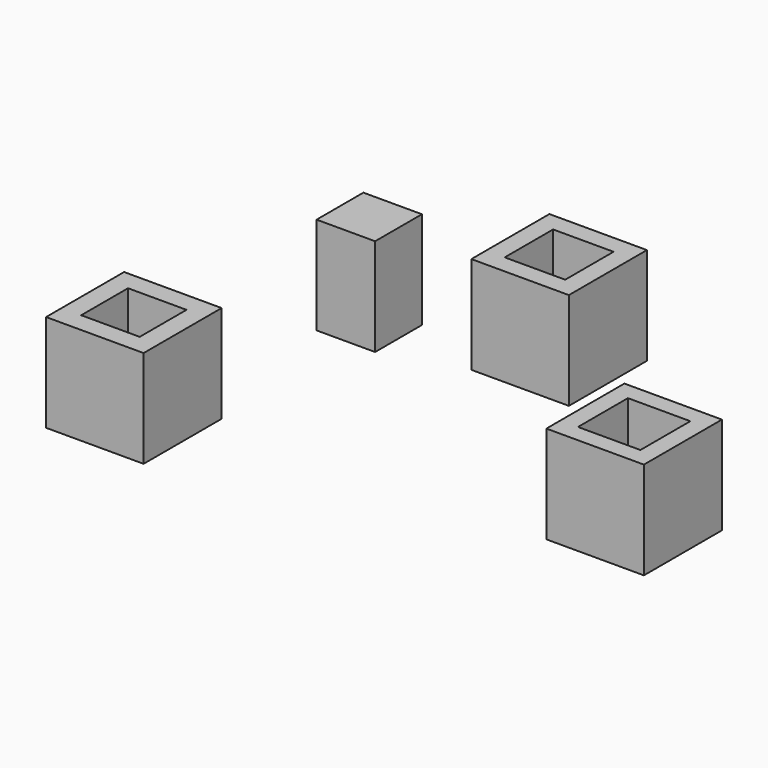
from build123d import *

# Parameters (mm, degrees)
F0_W      = 12.7
F0_H      = 12.7
F1_DEPTH  = 12.7
F3_DEPTH  = 25.4
F5_DEPTH  = 12.7
F6_DEPTH  = 12.7
F7_W      = 7.62
F7_H      = 7.62
F8_DEPTH  = 12.7
F10_DEPTH = 12.7


with BuildPart() as f1:
    # F0 (on Top) → F1 (new body)
    with BuildSketch(Plane.XY):
        with Locations((-32.144345, -16.076457)):
            Rectangle(F0_W, F0_H)
    extrude(amount=F1_DEPTH)

    # F2 (on face) → F3 (cut)
    with BuildSketch(Plane.XY.offset(12.7)):
        Polygon((-28.334345, -19.886457), (-28.334345, -16.076457), (-28.334345, -12.266457), (-32.144345, -12.266457), (-35.954345, -12.266457), (-35.954345, -16.076457), (-35.954345, -19.886457), (-32.144345, -19.886457), align=None)
    extrude(amount=-F3_DEPTH, mode=Mode.SUBTRACT)


with BuildPart() as f5:
    # F4 (on Top) → F5 (new body)
    with BuildSketch(Plane.XY):
        Polygon((16.574092, 0.588263), (16.574092, -9.825737), (22.924092, -9.825737), (22.924092, -7.539737), (18.860092, -7.539737), (18.860092, -3.475737), (18.860092, 0.588263), align=None)
        Polygon((22.924092, -7.539737), (22.924092, -9.825737), (29.274092, -9.825737), (29.274092, -3.475737), (26.988092, -3.475737), (26.988092, -7.539737), align=None)
        Polygon((16.574092, 2.874263), (16.574092, 0.588263), (18.860092, 0.588263), (21.67373, 0.588263), (21.67373, 2.874263), align=None)
        Polygon((26.988092, -3.475737), (29.274092, -3.475737), (29.274092, 2.874263), (21.67373, 2.874263), (21.67373, 0.588263), (26.988092, 0.588263), align=None)
    extrude(amount=F5_DEPTH)

    # F4 (on Top) → F6 (join)
    with BuildSketch(Plane.XY):
        Polygon((16.574092, 0.588263), (16.574092, -9.825737), (22.924092, -9.825737), (22.924092, -7.539737), (18.860092, -7.539737), (18.860092, -3.475737), (18.860092, 0.588263), align=None)
        Polygon((22.924092, -7.539737), (22.924092, -9.825737), (29.274092, -9.825737), (29.274092, -3.475737), (26.988092, -3.475737), (26.988092, -7.539737), align=None)
        Polygon((16.574092, 2.874263), (16.574092, 0.588263), (18.860092, 0.588263), (21.67373, 0.588263), (21.67373, 2.874263), align=None)
        Polygon((26.988092, -3.475737), (29.274092, -3.475737), (29.274092, 2.874263), (21.67373, 2.874263), (21.67373, 0.588263), (26.988092, 0.588263), align=None)
    extrude(amount=F6_DEPTH)


with BuildPart() as f8:
    # F7 (on Top) → F8 (new body)
    with BuildSketch(Plane.XY):
        with Locations((-26.604773, 15.316614)):
            Rectangle(F7_W, F7_H)
    extrude(amount=F8_DEPTH)


with BuildPart() as f10:
    # F9 (on Top) → F10 (new body)
    with BuildSketch(Plane.XY):
        Polygon((-6.35, 27.256869), (-12.7, 27.256869), (-12.7, 23.148131), (-10.287, 23.148131), (-10.287, 24.843869), (-6.35, 24.843869), align=None)
        Polygon((0, 27.256869), (-6.35, 27.256869), (-6.35, 24.843869), (-2.413, 24.843869), (-2.413, 21.997252), (0, 21.997252), align=None)
        Polygon((0, 14.556869), (0, 21.997252), (-2.413, 21.997252), (-2.413, 16.969869), (-7.789327, 16.969869), (-7.789327, 14.556869), align=None)
        Polygon((-10.287, 23.148131), (-12.7, 23.148131), (-12.7, 14.556869), (-7.789327, 14.556869), (-7.789327, 16.969869), (-10.287, 16.969869), align=None)
    extrude(amount=F10_DEPTH)


solid = Compound([f1.part, f5.part, f8.part, f10.part])
